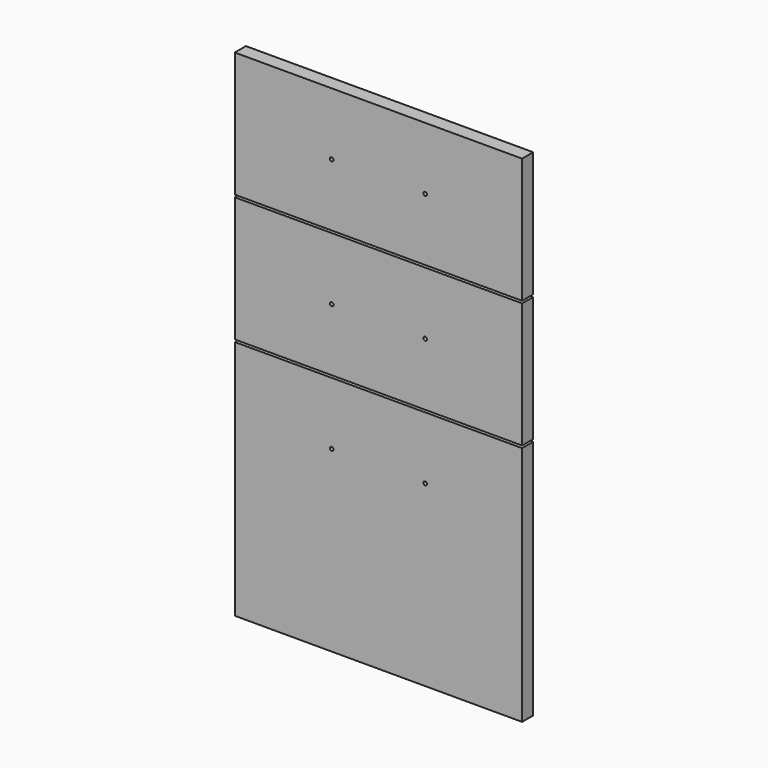
from build123d import *

# Parameters (mm, degrees)
F0_W     = 393.7
F0_H     = 679.45
F1_DEPTH = 19.05
F2_W     = 393.7
F2_H     = 3.175
F3_DEPTH = 25.4
F5_D     = 5.0038
F7_D     = 5.0038
F9_D     = 5.0038


with BuildPart() as f1:
    # F0 (on Front) → F1 (new body)
    with BuildSketch(Plane.XZ):
        Rectangle(F0_W, F0_H)
    extrude(amount=F1_DEPTH)

    # F2 (on face) → F3 (cut)
    with BuildSketch(Plane.XZ.offset(19.05)):
        with Locations((0, 166.6875)):
            Rectangle(F2_W, F2_H)
        with Locations((0, -7.9375)):
            Rectangle(F2_W, F2_H)
    extrude(amount=-F3_DEPTH, mode=Mode.SUBTRACT)

    # F5 (through all)
    with Locations(Plane.XZ.offset(19.05)):
        with Locations((-64.008, 254), (64.008, 254)):
            Hole(F5_D / 2)

    # F7 (through all)
    with Locations(Plane.XZ.offset(19.05)):
        with Locations((-64.008, 79.375), (64.008, 79.375)):
            Hole(F7_D / 2)

    # F9 (through all)
    with Locations(Plane.XZ.offset(19.05)):
        with Locations((64.008, -95.25), (-64.008, -95.25)):
            Hole(F9_D / 2)


solid = f1.part
